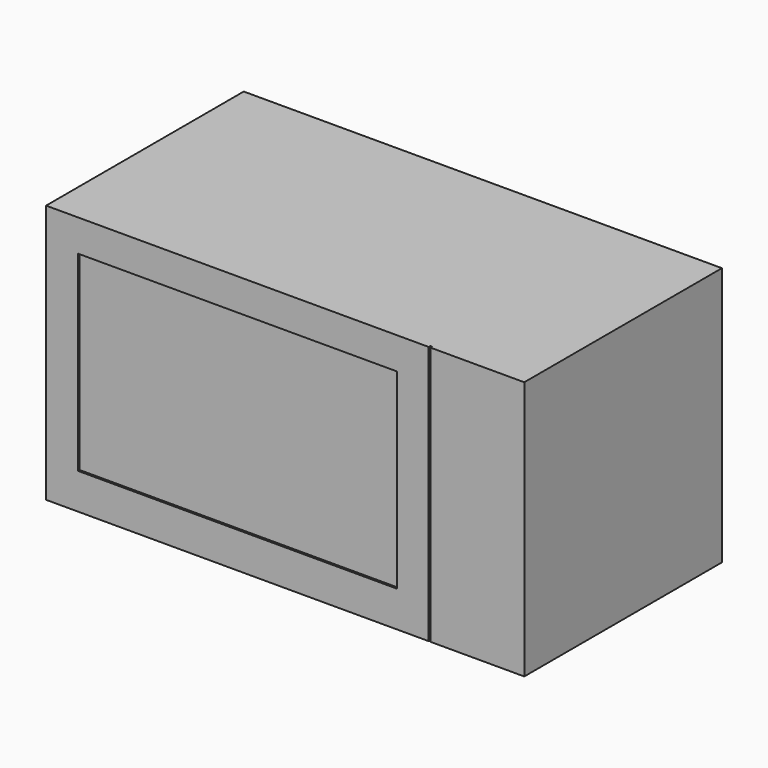
from build123d import *

# Parameters (mm, degrees)
F0_W     = 393.7
F0_H     = 412.75
F1_DEPTH = 381
F2_W     = 508
F2_H     = 304.8
F3_DEPTH = 3.175
F4_W     = 3.2004
F4_H     = 563.479573
F5_DEPTH = 3.175


with BuildPart() as f1:
    # F0 (on Right) → F1 (new body, symmetric)
    with BuildSketch(Plane.YZ):
        with Locations((-196.85, 206.375)):
            Rectangle(F0_W, F0_H)
    extrude(amount=F1_DEPTH, both=True)

    # F2 (on face) → F3 (cut)
    with BuildSketch(Plane.XZ.offset(393.7)):
        with Locations((-76.2, 209.55)):
            Rectangle(F2_W, F2_H)
    extrude(amount=-F3_DEPTH, mode=Mode.SUBTRACT)

    # F4 (on face) → F5 (cut)
    with BuildSketch(Plane.XZ.offset(393.7)):
        with Locations((230.2002, 202.011388)):
            Rectangle(F4_W, F4_H)
    extrude(amount=-F5_DEPTH, mode=Mode.SUBTRACT)


solid = f1.part
